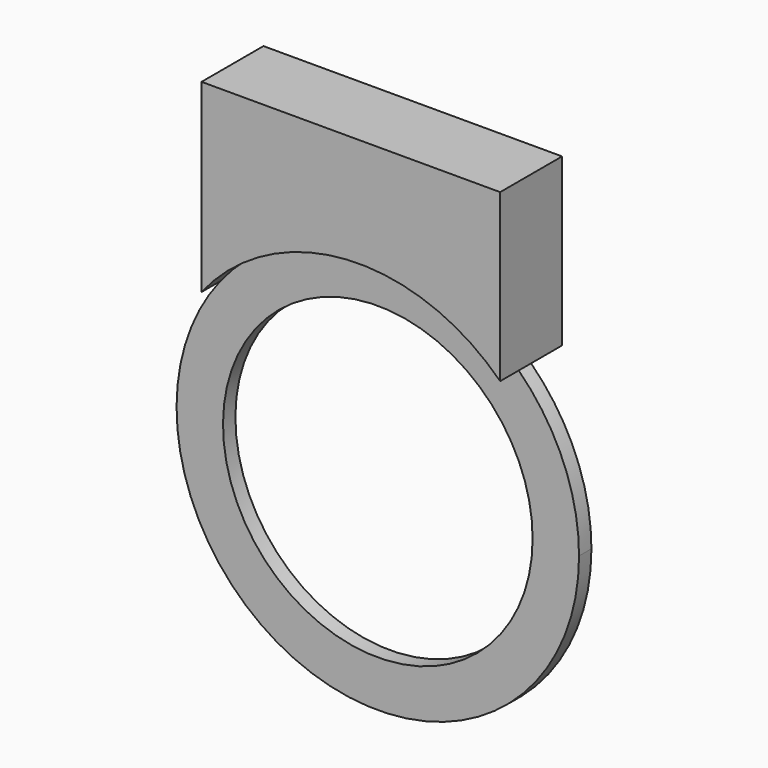
from build123d import *

# Parameters (mm, degrees)
F1_DEPTH = 5.08
F2_DEPTH = 12.7


with BuildPart() as f1:
    # F0 (on Front) → F1 (new body)
    with BuildSketch(Plane.XZ):
        with BuildLine():
            Line((46.2477207184, 25.5620218813), (46.2477207184, 47.1426550838))
            ThreePointArc((46.2477207184, 47.1426550838), (-4.1116515384, 65.9118799734), (-51.7479963601, 41.0295804599))
            Line((-51.7479963601, 41.0295804599), (-51.7479963601, 25.5620218813))
            Line((-51.7479963601, 25.5620218813), (-43.9001484888, 25.5620218813))
            ThreePointArc((-43.9001484888, 25.5620218813), (0, 50.8), (43.9001484888, 25.5620218813))
            Line((43.9001484888, 25.5620218813), (46.2477207184, 25.5620218813))
        make_face()
        with BuildLine():
            ThreePointArc((-51.7479963601, 41.0295804599), (-21.7237648715, -62.3647307363), (66.04, 0))
            ThreePointArc((66.04, 0), (60.8912188917, 25.56444918), (46.2477207184, 47.1426550838))
            Line((46.2477207184, 47.1426550838), (46.2477207184, 25.5620218813))
            Line((46.2477207184, 25.5620218813), (43.9001484888, 25.5620218813))
            ThreePointArc((43.9001484888, 25.5620218813), (49.0447119638, 13.2384375356), (50.8, 0))
            ThreePointArc((50.8, 0), (-13.2384375356, -49.0447119638), (-43.9001484888, 25.5620218813))
            Line((-43.9001484888, 25.5620218813), (-51.7479963601, 25.5620218813))
            Line((-51.7479963601, 25.5620218813), (-51.7479963601, 41.0295804599))
        make_face()
    extrude(amount=F1_DEPTH)

    # F0 (on Front) → F2 (join, symmetric)
    with BuildSketch(Plane.XZ):
        with BuildLine():
            ThreePointArc((-51.7479963601, 41.0295804599), (-4.1116515384, 65.9118799734), (46.2477207184, 47.1426550838))
            Line((46.2477207184, 47.1426550838), (46.2477207184, 101.7620218813))
            Line((46.2477207184, 101.7620218813), (-51.7479963601, 101.7620218813))
            Line((-51.7479963601, 101.7620218813), (-51.7479963601, 41.0295804599))
        make_face()
    extrude(amount=F2_DEPTH, both=True)


solid = f1.part
